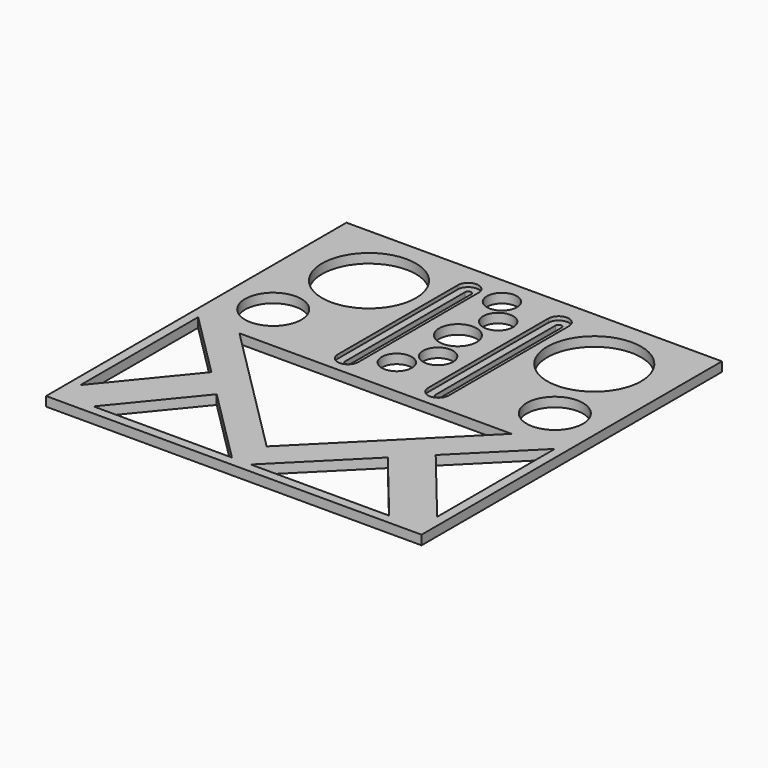
from build123d import *

# Parameters (mm, degrees)
SKETCH_W        = 200
SKETCH_H        = 200
PAD_DEPTH       = 5
SKETCH001_W     = 28.435717
SKETCH001_H     = 96.211274
SKETCH001_W_2   = 31.50908
SKETCH001_H_2   = 95.352357
PAD001_DEPTH    = 3
POCKET_DEPTH    = 5
SKETCH003_R     = 25
SKETCH003_R_2   = 15
POCKET001_DEPTH = 5
SKETCH004_R     = 8
SKETCH004_R_2   = 10
POCKET002_DEPTH = 5
PAD002_DEPTH    = 5


with BuildPart() as part:
    # Sketch → Pad (new body)
    with BuildSketch(Plane.XY):
        Rectangle(SKETCH_W, SKETCH_H)
        with BuildLine():
            ThreePointArc((-17.654241, 85), (-23.154241, 90.5), (-28.654241, 85))
            Line((-28.654241, 85), (-28.654241, 5))
            ThreePointArc((-28.654241, 5), (-23.154241, -0.5), (-17.654241, 5))
            Line((-17.654241, 5), (-17.654241, 85))
        make_face(mode=Mode.SUBTRACT)
        with BuildLine():
            ThreePointArc((30.5, 84.999994), (25, 90.499994), (19.5, 84.999994))
            Line((19.5, 5.000005), (19.5, 84.999994))
            ThreePointArc((19.5, 5.000005), (25, -0.499995), (30.5, 5.000005))
            Line((30.5, 84.999994), (30.5, 5.000005))
        make_face(mode=Mode.SUBTRACT)
    extrude(amount=PAD_DEPTH)

    # Sketch001 → Pad001 (join)
    with BuildSketch(Plane.XY):
        with Locations((-24.708835, 45.889106)):
            Rectangle(SKETCH001_W, SKETCH001_H)
        with BuildLine():
            ThreePointArc((-21.554241, 85), (-23.154241, 86.6), (-24.754241, 85))
            Line((-24.754241, 85), (-24.754241, 5))
            ThreePointArc((-24.754241, 5), (-23.154241, 3.4), (-21.554241, 5))
            Line((-21.554241, 5), (-21.554241, 85))
        make_face(mode=Mode.SUBTRACT)
        with Locations((28.35321, 45.459647)):
            Rectangle(SKETCH001_W_2, SKETCH001_H_2)
        with BuildLine():
            ThreePointArc((26.6, 85.000005), (25, 86.600005), (23.4, 85.000005))
            Line((23.4, 85.000005), (23.4, 5.000005))
            ThreePointArc((23.4, 5.000005), (25, 3.400005), (26.6, 5.000005))
            Line((26.6, 5.000005), (26.6, 85.000005))
        make_face(mode=Mode.SUBTRACT)
    extrude(amount=PAD001_DEPTH)

    # Sketch002 (on Face5 of Pad001) → Pocket (cut)
    with BuildSketch(Plane.XY.offset(5)):
        Polygon((-95, -5), (-95, -95), (-5, -95), align=None)
        Polygon((94.994808, -4.99544), (94.994808, -95.00456), (5.005192, -95.00456), align=None)
        Polygon((0, -78.141), (-72.507856, -5.633144), (72.492144, -5.633144), align=None)
    extrude(amount=-POCKET_DEPTH, mode=Mode.SUBTRACT)

    # Sketch003 (on Face5 of Pocket) → Pocket001 (cut)
    with BuildSketch(Plane.XY.offset(5)):
        with Locations((-60, 65)):
            Circle(SKETCH003_R)
        with Locations((-75, 20)):
            Circle(SKETCH003_R_2)
        with Locations((75, 20)):
            Circle(SKETCH003_R_2)
        with Locations((60, 65)):
            Circle(SKETCH003_R)
    extrude(amount=-POCKET001_DEPTH, mode=Mode.SUBTRACT)

    # Sketch004 → Pocket002 (cut)
    with BuildSketch(Plane.XY):
        with Locations((-5, 14.771259)):
            Circle(SKETCH004_R)
        with Locations((5, 29.771259)):
            Circle(SKETCH004_R)
        with Locations((-0.442374, 49.771259)):
            Circle(SKETCH004_R_2)
        with Locations((-5, 84.771259)):
            Circle(SKETCH004_R)
        with Locations((5, 69.771259)):
            Circle(SKETCH004_R)
    extrude(amount=POCKET002_DEPTH, mode=Mode.SUBTRACT)

    # Sketch005 → Pad002 (join)
    with BuildSketch(Plane.XY):
        Polygon((-97.778632, -86.74954), (-95.572601, -99.607414), (-82.526855, -99.607414), (-42.874022, -51.133889), (-57.164055, -37.100334), align=None)
        Polygon((57.164055, -37.100334), (42.874022, -51.133889), (82.526855, -99.607414), (95.572601, -99.607414), (97.778632, -86.74954), align=None)
    extrude(amount=PAD002_DEPTH)


solid = part.part
